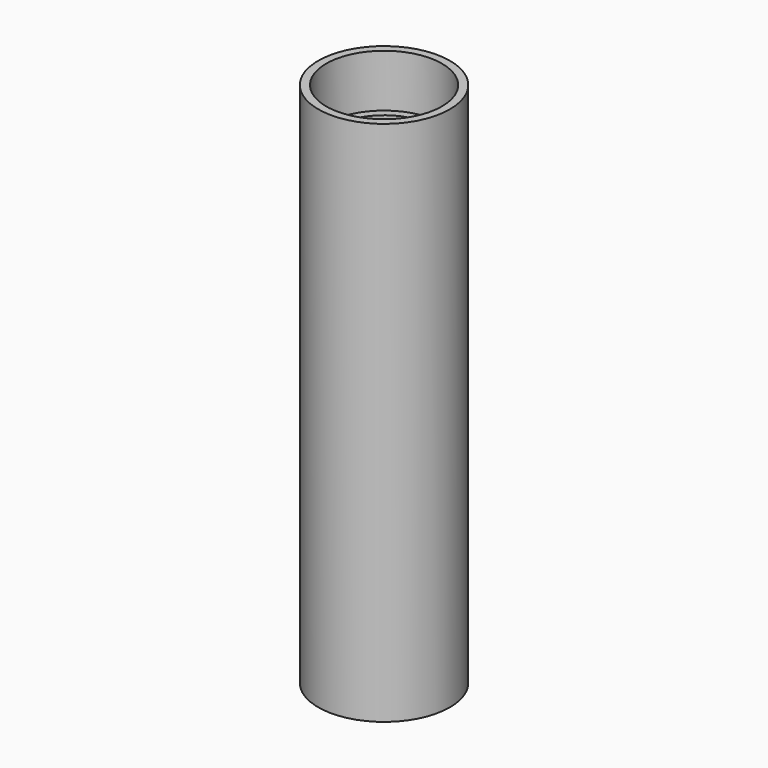
from build123d import *

# Parameters (mm, degrees)
F0_R          = 12.5
F1_DEPTH      = 100
F2_R          = 9.5
F3_DEPTH      = 90
F3_DEPTH_BACK = 101.346
F4_R          = 11
F5_DEPTH      = 10
F5_DEPTH_BACK = 25.4


with BuildPart() as f1:
    # F0 (on Top) → F1 (new body)
    with BuildSketch(Plane.XY):
        Circle(F0_R)
    extrude(amount=F1_DEPTH)

    # F2 (on face) → F3 (cut, two sides)
    with BuildSketch(Plane(origin=(0, 0, 0), x_dir=(1, 0, 0), z_dir=(0, 0, -1))) as f3_sk:
        Circle(F2_R)
    extrude(amount=-F3_DEPTH, mode=Mode.SUBTRACT)
    extrude(f3_sk.sketch, amount=F3_DEPTH_BACK, mode=Mode.SUBTRACT)

    # F4 (on face) → F5 (cut, two sides)
    with BuildSketch(Plane.XY.offset(100)) as f5_sk:
        Circle(F4_R)
    extrude(amount=-F5_DEPTH, mode=Mode.SUBTRACT)
    extrude(f5_sk.sketch, amount=F5_DEPTH_BACK, mode=Mode.SUBTRACT)


solid = f1.part
